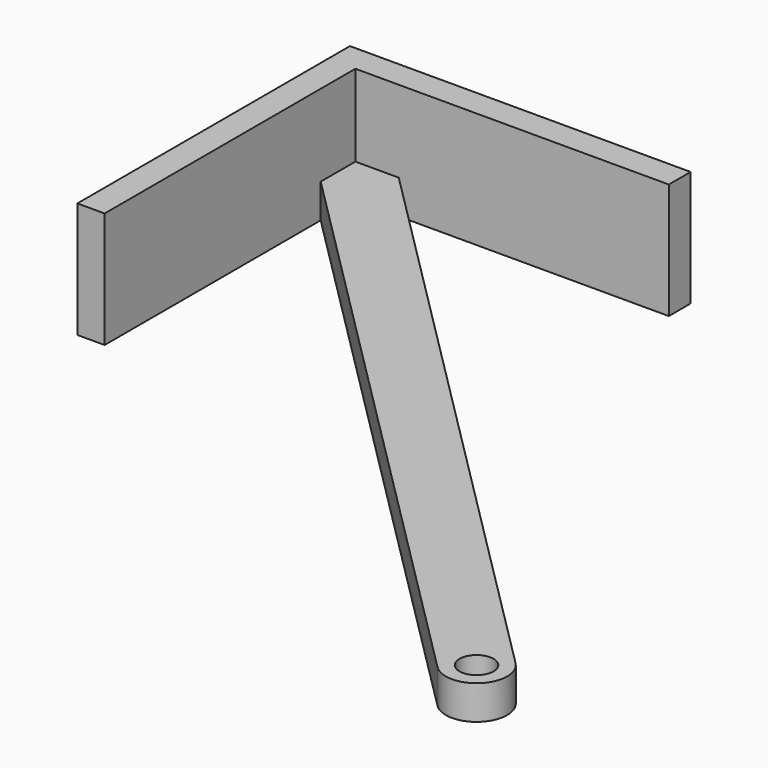
from build123d import *

# Parameters (mm, degrees)
F1_DEPTH = 5
F3_DEPTH = 12
F4_R     = 2.5
F5_DEPTH = 25


with BuildPart() as f1:
    # F0 (on Top) → F1 (new body)
    with BuildSketch(Plane.XY):
        with BuildLine():
            Line((-92.9, 92.9), (-92.9, 42.9))
            Line((-92.9, 42.9), (-88.9, 42.9))
            Line((-88.9, 42.9), (-88.9, 82.536039))
            Line((-88.9, 82.536039), (-3.181981, -3.181981))
            ThreePointArc((-3.181981, -3.181981), (3.181981, -3.181981), (3.181981, 3.181981))
            Line((3.181981, 3.181981), (-82.536039, 88.9))
            Line((-82.536039, 88.9), (-42.9, 88.9))
            Line((-42.9, 88.9), (-42.9, 92.9))
            Line((-42.9, 92.9), (-92.9, 92.9))
        make_face()
    extrude(amount=F1_DEPTH)

    # F2 (on face) → F3 (join)
    with BuildSketch(Plane.XY.offset(5)):
        Polygon((-42.9, 92.9), (-92.9, 92.9), (-92.9, 42.9), (-88.9, 42.9), (-88.9, 88.9), (-42.9, 88.9), align=None)
    extrude(amount=F3_DEPTH)

    # F4 (on face) → F5 (cut)
    with BuildSketch(Plane.XY.offset(5)):
        Circle(F4_R)
    extrude(amount=-F5_DEPTH, mode=Mode.SUBTRACT)


solid = f1.part
